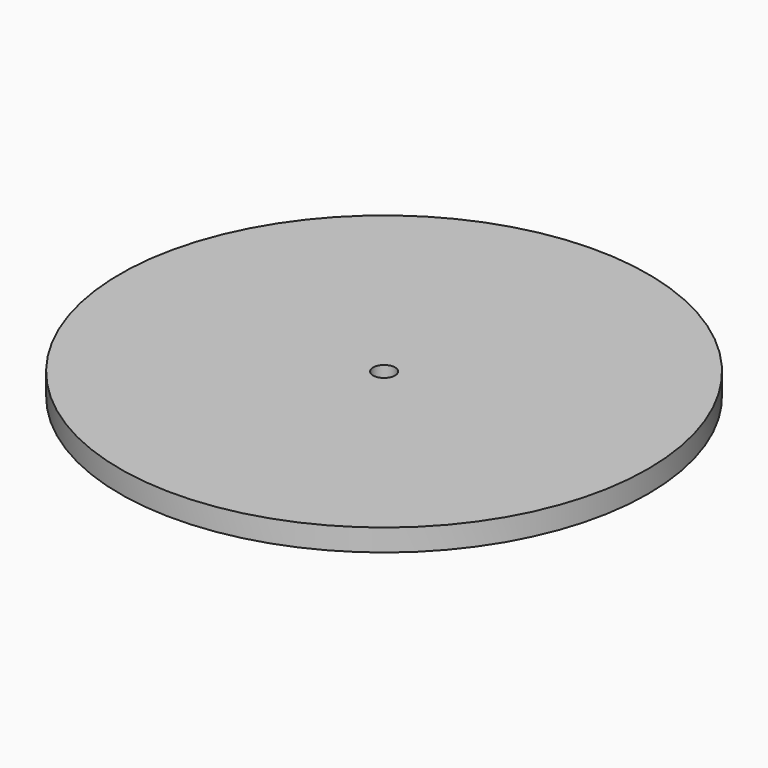
from build123d import *

# Parameters (mm, degrees)
F0_R     = 38.1
F0_R_2   = 1.5875
F1_DEPTH = 3.175
F2_DEPTH = 3.175


with BuildPart() as f1:
    # F0 (on Top) → F1 (new body)
    with BuildSketch(Plane.XY):
        Circle(F0_R)
        Circle(F0_R_2, mode=Mode.SUBTRACT)
    extrude(amount=F1_DEPTH)

    # F0 (on Top) → F2 (cut)
    with BuildSketch(Plane.XY):
        Circle(F0_R_2)
    extrude(amount=-F2_DEPTH, mode=Mode.SUBTRACT)


solid = f1.part
